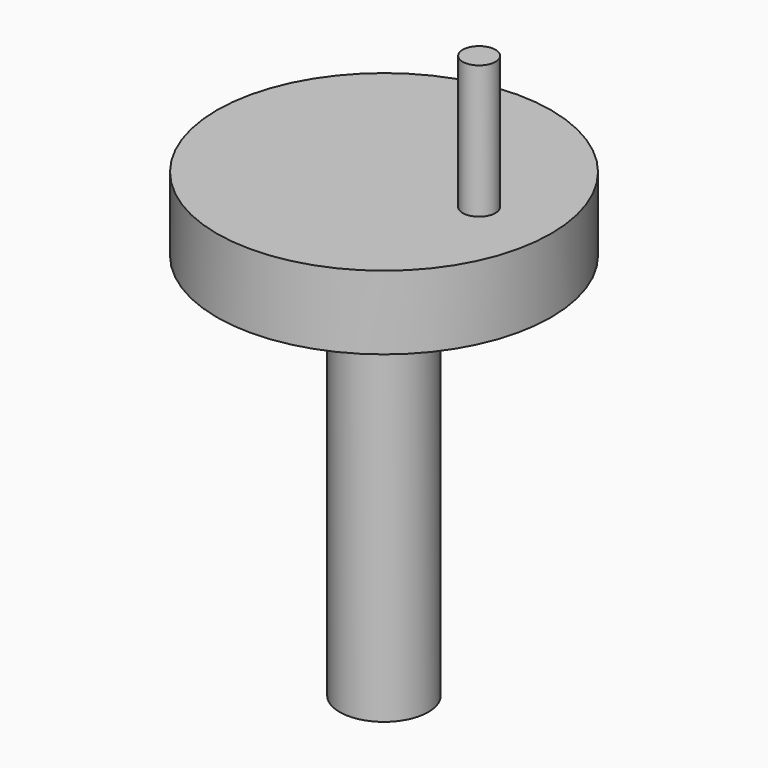
from build123d import *

# Parameters (mm, degrees)
F0_R     = 65.720359
F1_DEPTH = 28.95929
F2_R     = 6.440995
F3_DEPTH = 52.36186
F4_R     = 17.45325
F5_DEPTH = 152.35555


with BuildPart() as f1:
    # F0 (on Top) → F1 (new body)
    with BuildSketch(Plane.XY):
        Circle(F0_R)
    extrude(amount=-F1_DEPTH)

    # F2 (on Top) → F3 (join)
    with BuildSketch(Plane.XY):
        with Locations((37.392426, 0)):
            Circle(F2_R)
    extrude(amount=F3_DEPTH)

    # F4 (on face) → F5 (join)
    with BuildSketch(Plane(origin=(0, 0, -28.95929), x_dir=(1, 0, 0), z_dir=(0, 0, -1))):
        Circle(F4_R)
        Circle(F4_R)
    extrude(amount=F5_DEPTH)


solid = f1.part
